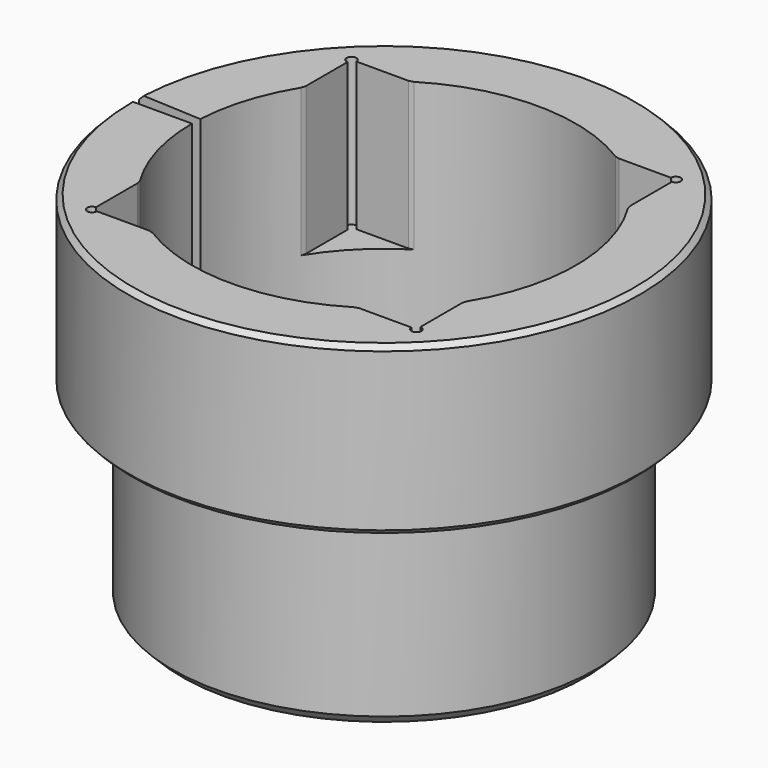
from build123d import *

# Parameters (mm, degrees)
REVOLUTION_ANGLE = -357
SKETCH002_R      = 19.5
POCKET_DEPTH     = 36.501
POCKET001_DEPTH  = 15
CHAMFER_SIZE     = 0.25
CHAMFER001_SIZE  = 0.5
CHAMFER002_SIZE  = 0.5
CHAMFER003_SIZE  = 1


with BuildPart() as part:
    # Sketch → Revolution (revolve)
    with BuildSketch(Plane(origin=(0, 0, 0), x_dir=(0, 0, -1), z_dir=(0, -1, 0))):
        Polygon((-36.5, 0), (0, 0), (0, -21.5), (-19.5, -21.5), (-19.5, -26), (-36.5, -26), align=None)
    revolve(axis=Axis((0, 0, 0), (0, 0, -1)), revolution_arc=REVOLUTION_ANGLE)

    # Sketch002 → Pocket (cut, through all)
    with BuildSketch(Plane.XY):
        Circle(SKETCH002_R)
    extrude(amount=POCKET_DEPTH, mode=Mode.SUBTRACT)

    # Sketch001 → Pocket001 (cut)
    with BuildSketch(Plane.XY.offset(36.5)):
        with BuildLine():
            ThreePointArc((-15.975, 16.475), (-16.828553, 16.828553), (-16.475, 15.975))
            Line((-16.475, -15.975), (-16.475, 15.975))
            ThreePointArc((-16.475, -15.975), (-16.828553, -16.828553), (-15.975, -16.475))
            Line((15.975, -16.475), (-15.975, -16.475))
            ThreePointArc((15.975, -16.475), (16.828553, -16.828553), (16.475, -15.975))
            Line((16.475, 15.975), (16.475, -15.975))
            ThreePointArc((16.475, 15.975), (16.828553, 16.828553), (15.975, 16.475))
            Line((15.975, 16.475), (-15.975, 16.475))
        make_face()
    extrude(amount=-POCKET001_DEPTH, mode=Mode.SUBTRACT)

    # Chamfer
    chamfer_edges = [part.edges().sort_by_distance(p)[0] for p in [
        (-16.475, -10.431892, 29),
        (-10.431892, -16.475, 29),
        (10.431892, -16.475, 29),
        (16.475, -10.431892, 29),
        (-16.475, 10.431892, 29),
        (-10.431892, 16.475, 29),
        (10.431892, 16.475, 29),
        (16.475, 10.431892, 29),
    ]]
    chamfer(chamfer_edges, length=CHAMFER_SIZE)

    # Chamfer001
    chamfer001_edges = [part.edges().sort_by_distance(p)[0] for p in [
        (25.99109, -0.680601, 36.5),
    ]]
    chamfer(chamfer001_edges, length=CHAMFER001_SIZE)

    # Chamfer002
    chamfer002_edges = [part.edges().sort_by_distance(p)[0] for p in [
        (25.99109, -0.680601, 19.5),
    ]]
    chamfer(chamfer002_edges, length=CHAMFER002_SIZE)

    # Chamfer003
    chamfer003_edges = [part.edges().sort_by_distance(p)[0] for p in [
        (21.492632, -0.562804, 0),
    ]]
    chamfer(chamfer003_edges, length=CHAMFER003_SIZE)


solid = part.part
